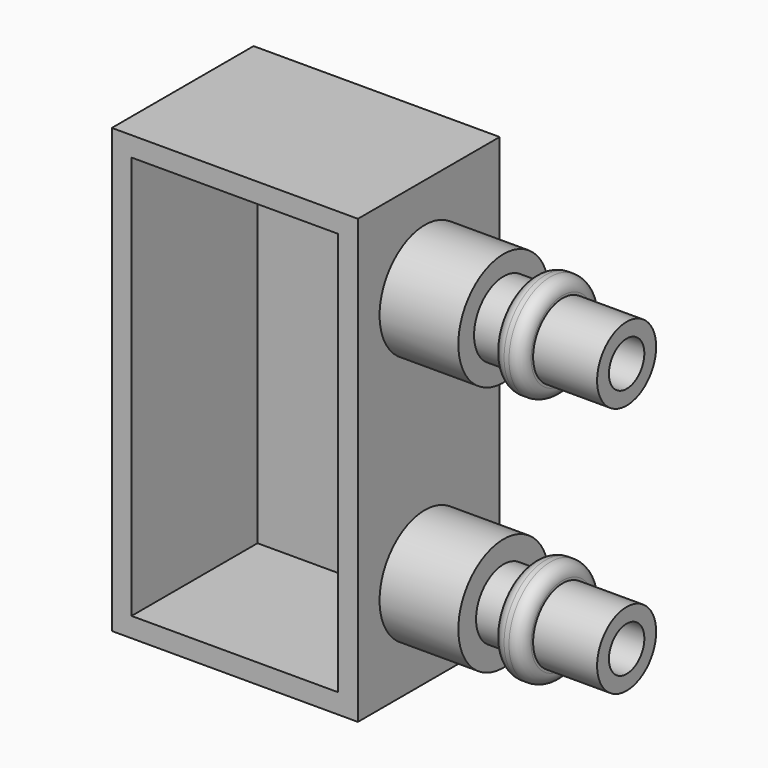
from build123d import *

# Parameters (mm, degrees)
F0_W      = 25
F0_H      = 45
F1_DEPTH  = 2
F2_W      = 25
F2_H      = 45
F2_W_2    = 21
F2_H_2    = 41
F3_DEPTH  = 16
F4_R      = 5.75
F5_DEPTH  = 8
F6_R      = 3.75
F7_DEPTH  = 3
F8_R      = 3.5
F9_DEPTH  = 3
F10_R     = 5.25
F11_DEPTH = 3
F12_R     = 5.25
F13_DEPTH = 3
F14_R     = 3.75
F15_DEPTH = 6.5
F16_R     = 3.75
F17_DEPTH = 6.5
F18_R     = 1.25
F19_R     = 2.25
F20_DEPTH = 25
F21_R     = 2.25
F22_DEPTH = 25


with BuildPart() as f1:
    # F0 (on Front) → F1 (new body)
    with BuildSketch(Plane.XZ):
        Rectangle(F0_W, F0_H)
    extrude(amount=F1_DEPTH)

    # F2 (on face) → F3 (join)
    with BuildSketch(Plane.XZ.offset(2)):
        Rectangle(F2_W, F2_H)
        Rectangle(F2_W_2, F2_H_2, mode=Mode.SUBTRACT)
    extrude(amount=F3_DEPTH)

    # F4 (on face) → F5 (join)
    with BuildSketch(Plane.YZ.offset(12.5)):
        with Locations((-9.5, 12.75)):
            Circle(F4_R)
        with Locations((-9.5, -12.75)):
            Circle(F4_R)
    extrude(amount=F5_DEPTH)

    # F6 (on face) → F7 (join)
    with BuildSketch(Plane.YZ.offset(20.5)):
        with Locations((-9.5, 12.75)):
            Circle(F6_R)
    extrude(amount=F7_DEPTH)

    # F8 (on face) → F9 (join)
    with BuildSketch(Plane.YZ.offset(20.5)):
        with Locations((-9.5, -12.75)):
            Circle(F8_R)
    extrude(amount=F9_DEPTH)

    # F10 (on face) → F11 (join)
    with BuildSketch(Plane.YZ.offset(23.5)):
        with Locations((-9.5, 12.75)):
            Circle(F10_R)
    extrude(amount=F11_DEPTH)

    # F12 (on face) → F13 (join)
    with BuildSketch(Plane.YZ.offset(23.5)):
        with Locations((-9.5, -12.75)):
            Circle(F12_R)
    extrude(amount=F13_DEPTH)

    # F14 (on face) → F15 (join)
    with BuildSketch(Plane.YZ.offset(26.5)):
        with Locations((-9.5, 12.75)):
            Circle(F14_R)
    extrude(amount=F15_DEPTH)

    # F16 (on face) → F17 (join)
    with BuildSketch(Plane.YZ.offset(26.5)):
        with Locations((-9.5, -12.75)):
            Circle(F16_R)
    extrude(amount=F17_DEPTH)

    # F18
    f18_edges = [f1.edges().sort_by_distance(p)[0] for p in [
        (26.5, -14.75, 12.75),
        (26.5, -14.75, -12.75),
        (23.5, -14.75, -12.75),
        (23.5, -14.75, 12.75),
    ]]
    fillet(f18_edges, radius=F18_R)

    # F19 (on face) → F20 (cut)
    with BuildSketch(Plane.YZ.offset(33)):
        with Locations((-9.5, 12.75)):
            Circle(F19_R)
    extrude(amount=-F20_DEPTH, mode=Mode.SUBTRACT)

    # F21 (on face) → F22 (cut)
    with BuildSketch(Plane.YZ.offset(33)):
        with Locations((-9.5, -12.75)):
            Circle(F21_R)
    extrude(amount=-F22_DEPTH, mode=Mode.SUBTRACT)


solid = f1.part
